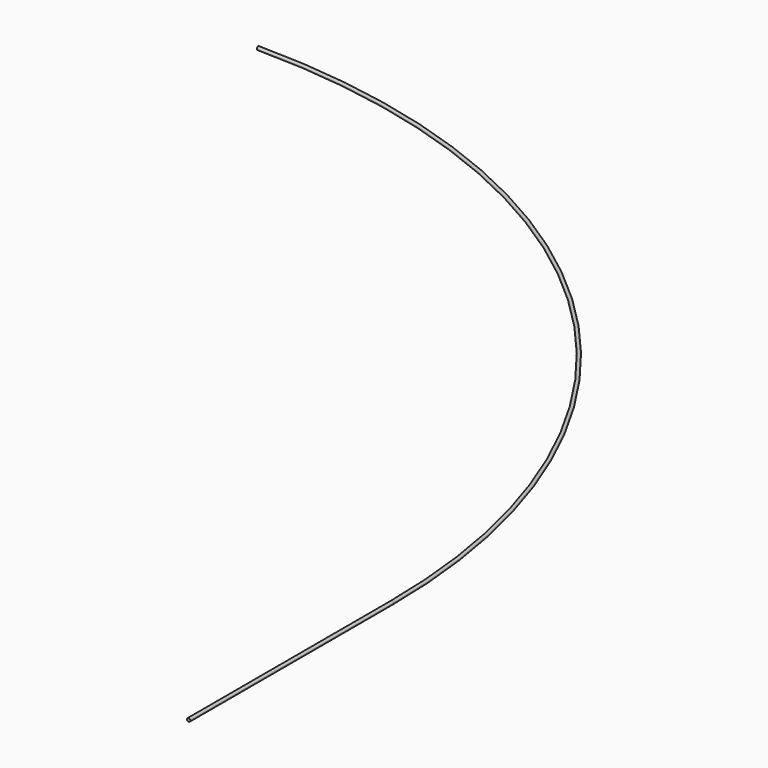
from build123d import *

# Parameters (mm, degrees)
F1_R = 1


with BuildPart() as f2:
    # F2: sweep along a path in F0
    with BuildLine(Plane.XY) as f2_path:
        ThreePointArc((0, 0), (283.305909, -117.34915), (400.655059, -400.655059))
        Line((400.655059, -400.655059), (400.655059, -553.055059))
    # F1 (on Right) → F2 (sweep)
    with BuildSketch(Plane.YZ):
        Circle(F1_R)
    sweep(path=f2_path.line)


solid = f2.part
